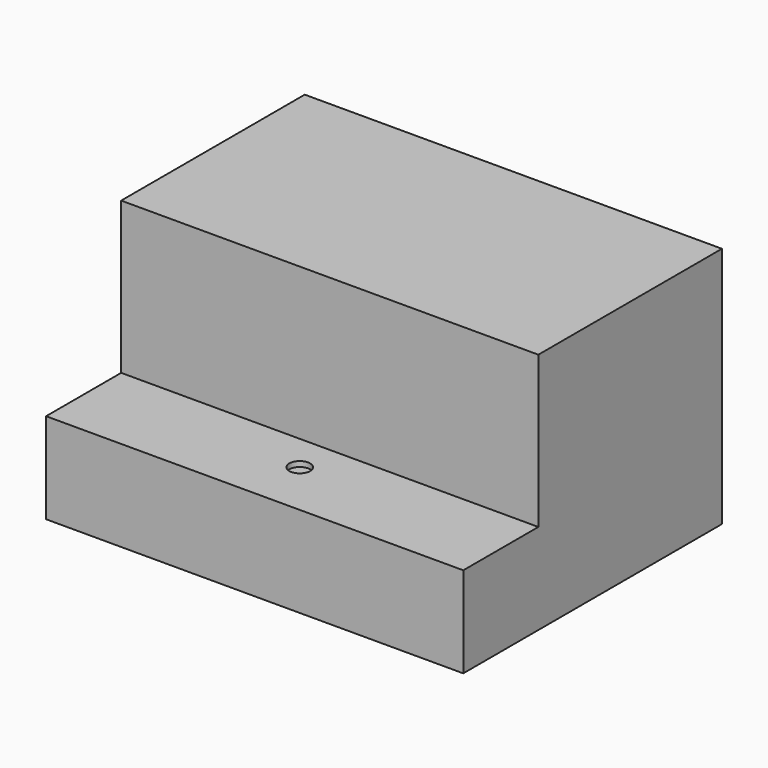
from build123d import *

# Parameters (mm, degrees)
F0_W     = 40
F0_H     = 31
F1_DEPTH = 8.7
F2_W     = 40
F2_H     = 22
F3_DEPTH = 14.54
F4_R     = 1
F5_DEPTH = 0.5


with BuildPart() as f1:
    # F0 (on Top) → F1 (new body)
    with BuildSketch(Plane.XY):
        Rectangle(F0_W, F0_H)
    extrude(amount=F1_DEPTH)

    # F2 (on face) → F3 (join)
    with BuildSketch(Plane.XY.offset(8.7)):
        with Locations((0, 4.5)):
            Rectangle(F2_W, F2_H)
    extrude(amount=F3_DEPTH)

    # F4 (on face) → F5 (cut)
    with BuildSketch(Plane.XY.offset(8.7)):
        with Locations((0, -10.1)):
            Circle(F4_R)
    extrude(amount=-F5_DEPTH, mode=Mode.SUBTRACT)


solid = f1.part
